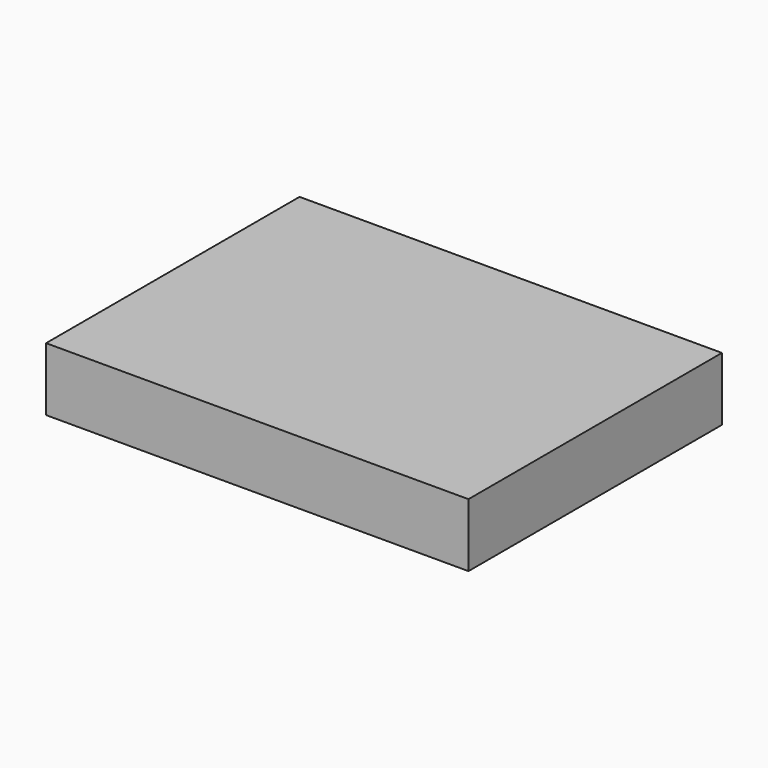
from build123d import *

# Parameters (mm, degrees)
F1_DEPTH = 600


with BuildPart() as f1:
    # F0 (on Top) → F1 (new body)
    with BuildSketch(Plane.XY):
        Polygon((2000, 1500), (-2000, 1500), (0, 0), align=None)
        Polygon((0, 0), (-2000, 1500), (-2000, -1500), align=None)
        Polygon((2000, -1500), (0, 0), (-2000, -1500), align=None)
        Polygon((2000, 1500), (0, 0), (2000, -1500), align=None)
    extrude(amount=F1_DEPTH)


solid = f1.part
